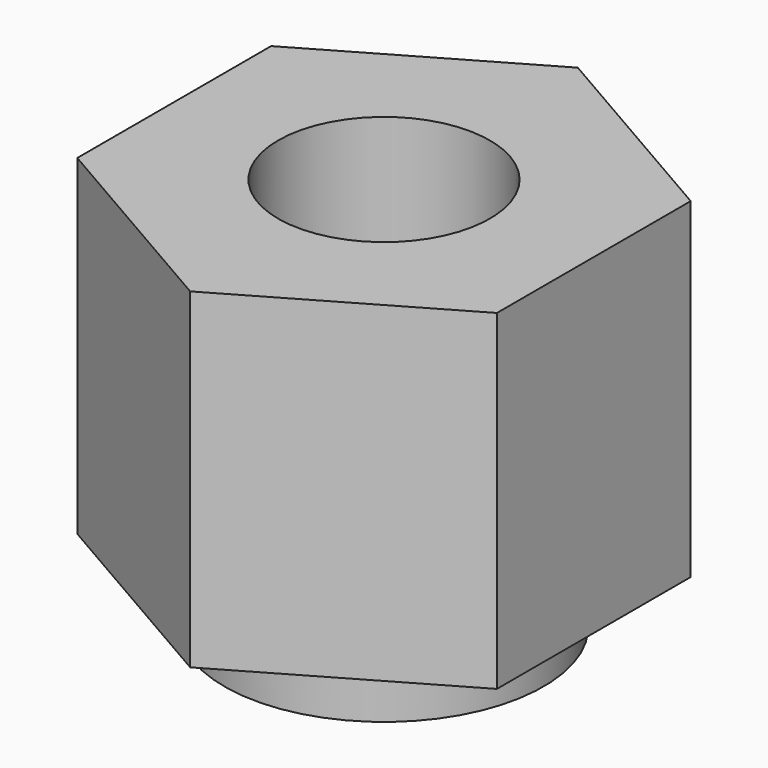
from build123d import *

# Parameters (mm, degrees)
SKETCH001_R       = 3
POCKET_DEPTH      = 0.481
POCKET_DEPTH_BACK = -2.501


with BuildPart() as part:
    # Sketch → Revolution (revolve)
    with BuildSketch(Plane.XZ):
        Polygon((-0.8, 2.5), (-0.8, -0.48), (-1.205, -0.48), (-1.205, 0), (-1.83, 0), (-1.83, 2.5), align=None)
    revolve(axis=Axis((0, 0, 0), (0, 0, 1)))

    # Sketch001 → Pocket (cut, two sides)
    with BuildSketch(Plane.XY) as pocket_sk:
        Circle(SKETCH001_R)
        Polygon((0, 1.83), (-1.584826, 0.915), (-1.584826, -0.915), (0, -1.83), (1.584826, -0.915), (1.584826, 0.915), align=None, mode=Mode.SUBTRACT)
    extrude(amount=-POCKET_DEPTH, mode=Mode.SUBTRACT)
    extrude(pocket_sk.sketch, amount=-POCKET_DEPTH_BACK, mode=Mode.SUBTRACT)


solid = part.part
